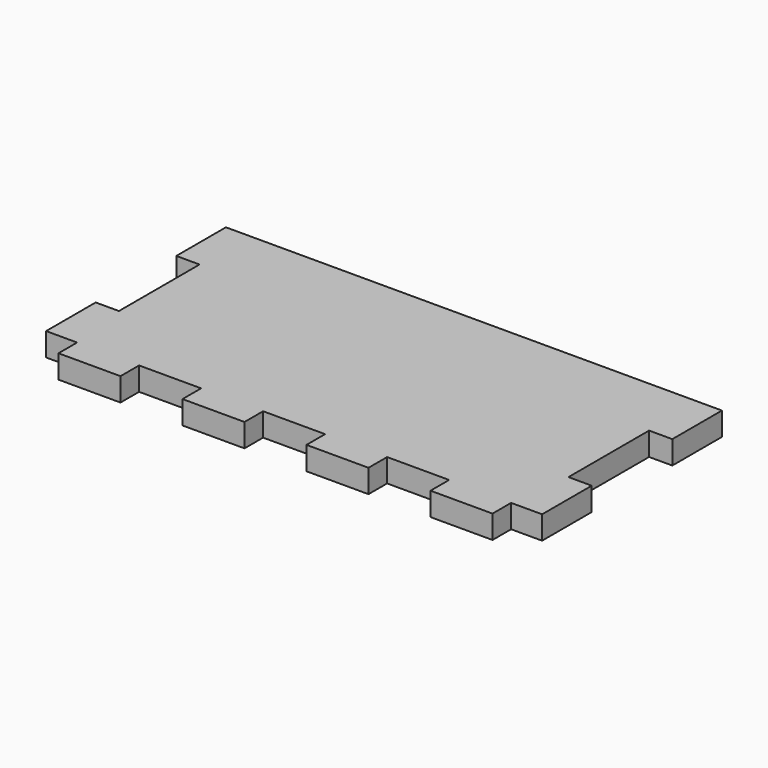
from build123d import *

# Parameters (mm, degrees)
F0_W     = 101.6
F0_H     = 50.8
F1_DEPTH = 4.7625
F2_W     = 6.35
F2_H     = 4.7625
F2_W_2   = 12.7
F3_DEPTH = 25.4
F4_W     = 4.7625
F4_H     = 20.6375
F5_DEPTH = 25.4


with BuildPart() as f1:
    # F0 (on Top) → F1 (new body)
    with BuildSketch(Plane.XY):
        Rectangle(F0_W, F0_H)
    extrude(amount=F1_DEPTH)

    # F2 (on face) → F3 (cut)
    with BuildSketch(Plane.XY.offset(4.7625)):
        with Locations((-47.625, -23.01875)):
            Rectangle(F2_W, F2_H)
        with Locations((-25.4, -23.01875)):
            Rectangle(F2_W_2, F2_H)
        with Locations((0, -23.01875)):
            Rectangle(F2_W_2, F2_H)
        with Locations((25.4, -23.01875)):
            Rectangle(F2_W_2, F2_H)
        with Locations((47.625, -23.01875)):
            Rectangle(F2_W, F2_H)
    extrude(amount=-F3_DEPTH, mode=Mode.SUBTRACT)

    # F4 (on face) → F5 (cut)
    with BuildSketch(Plane.XY.offset(4.7625)):
        with Locations((-48.41875, 2.38125)):
            Rectangle(F4_W, F4_H)
        with Locations((48.41875, 2.38125)):
            Rectangle(F4_W, F4_H)
    extrude(amount=-F5_DEPTH, mode=Mode.SUBTRACT)


solid = f1.part
